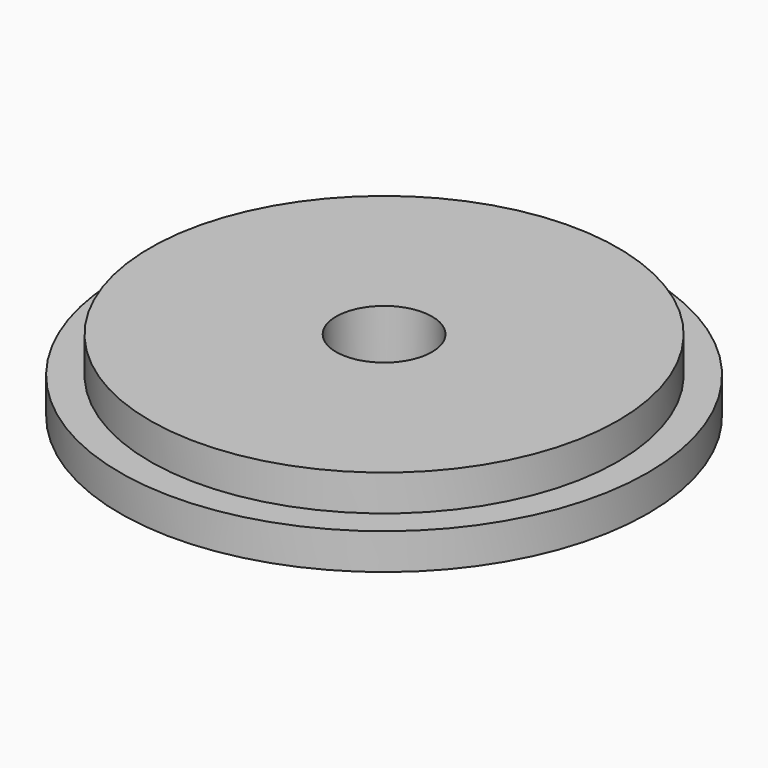
from build123d import *

# Parameters (mm, degrees)
F0_R     = 22
F1_DEPTH = 3
F2_R     = 19.5
F3_DEPTH = 3
F4_R     = 4
F5_DEPTH = 6.001


with BuildPart() as f1:
    # F0 (on Top) → F1 (new body)
    with BuildSketch(Plane.XY):
        Circle(F0_R)
    extrude(amount=F1_DEPTH)

    # F2 (on face) → F3 (join)
    with BuildSketch(Plane.XY.offset(3)):
        Circle(F2_R)
    extrude(amount=F3_DEPTH)

    # F4 (on face) → F5 (cut, through all)
    with BuildSketch(Plane.XY.offset(6)):
        Circle(F4_R)
    extrude(amount=-F5_DEPTH, mode=Mode.SUBTRACT)


solid = f1.part
